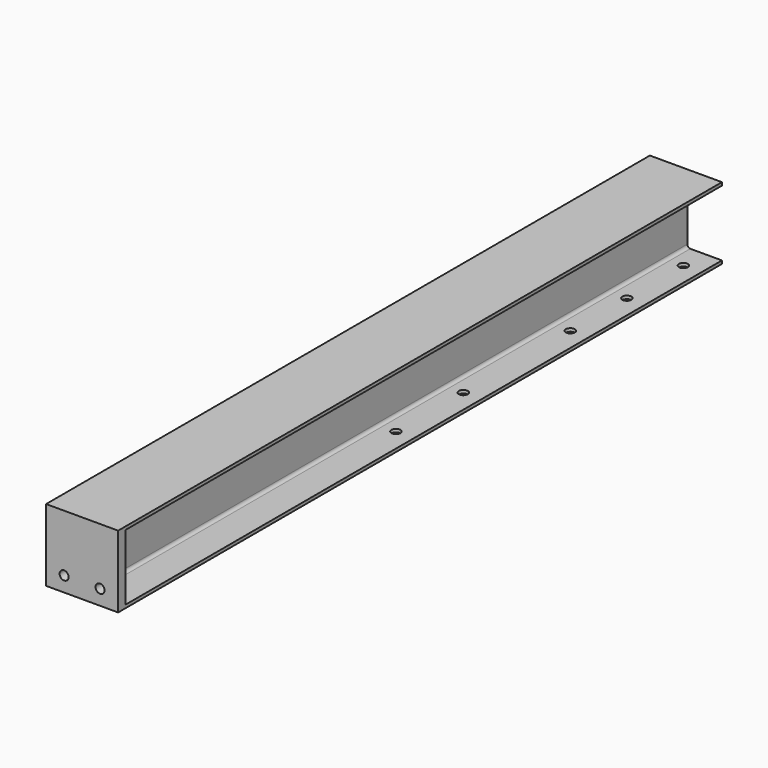
from build123d import *

# Parameters (mm, degrees)
F1_DEPTH = 1574.8
F3_DEPTH = 19.05
F4_R     = 9.525
F5_DEPTH = 43.942
F6_R     = 9.525
F7_DEPTH = 25.4


with BuildPart() as f1:
    # F0 (on Front) → F1 (new body)
    with BuildSketch(Plane.XZ):
        with BuildLine():
            Line((76.073, 76.073), (-76.073, 76.073))
            Line((-76.073, 76.073), (-76.073, 69.469))
            Line((-76.073, 69.469), (-9.271, 69.469))
            ThreePointArc((-9.271, 69.469), (-4.780872, 67.609128), (-2.921, 63.119))
            Line((-2.921, 63.119), (-2.921, -63.119))
            ThreePointArc((-2.921, -63.119), (-4.780872, -67.609128), (-9.271, -69.469))
            Line((-9.271, -69.469), (-76.073, -69.469))
            Line((-76.073, -69.469), (-76.073, -76.073))
            Line((-76.073, -76.073), (76.073, -76.073))
            Line((76.073, -76.073), (76.073, -69.469))
            Line((76.073, -69.469), (9.271, -69.469))
            ThreePointArc((9.271, -69.469), (4.780872, -67.609128), (2.921, -63.119))
            Line((2.921, -63.119), (2.921, 63.119))
            ThreePointArc((2.921, 63.119), (4.780872, 67.609128), (9.271, 69.469))
            Line((9.271, 69.469), (76.073, 69.469))
            Line((76.073, 69.469), (76.073, 76.073))
        make_face()
    extrude(amount=F1_DEPTH)

    # F2 (on face) → F3 (join)
    with BuildSketch(Plane.XZ.offset(1574.8)):
        with BuildLine():
            Line((-9.271, 69.469), (-76.073, 69.469))
            Line((-76.073, 69.469), (-76.073, -69.469))
            Line((-76.073, -69.469), (-9.271, -69.469))
            ThreePointArc((-9.271, -69.469), (-4.780872, -67.609128), (-2.921, -63.119))
            Line((-2.921, -63.119), (-2.921, 63.119))
            ThreePointArc((-2.921, 63.119), (-4.780872, 67.609128), (-9.271, 69.469))
        make_face()
        with BuildLine():
            Line((76.073, 76.073), (-76.073, 76.073))
            Line((-76.073, 76.073), (-76.073, 69.469))
            Line((-76.073, 69.469), (-9.271, 69.469))
            ThreePointArc((-9.271, 69.469), (-4.780872, 67.609128), (-2.921, 63.119))
            Line((-2.921, 63.119), (-2.921, -63.119))
            ThreePointArc((-2.921, -63.119), (-4.780872, -67.609128), (-9.271, -69.469))
            Line((-9.271, -69.469), (-76.073, -69.469))
            Line((-76.073, -69.469), (-76.073, -76.073))
            Line((-76.073, -76.073), (76.073, -76.073))
            Line((76.073, -76.073), (76.073, -69.469))
            Line((76.073, -69.469), (9.271, -69.469))
            ThreePointArc((9.271, -69.469), (4.780872, -67.609128), (2.921, -63.119))
            Line((2.921, -63.119), (2.921, 63.119))
            ThreePointArc((2.921, 63.119), (4.780872, 67.609128), (9.271, 69.469))
            Line((9.271, 69.469), (76.073, 69.469))
            Line((76.073, 69.469), (76.073, 76.073))
        make_face()
        with BuildLine():
            Line((76.073, -69.469), (76.073, 69.469))
            Line((76.073, 69.469), (9.271, 69.469))
            ThreePointArc((9.271, 69.469), (4.780872, 67.609128), (2.921, 63.119))
            Line((2.921, 63.119), (2.921, -63.119))
            ThreePointArc((2.921, -63.119), (4.780872, -67.609128), (9.271, -69.469))
            Line((9.271, -69.469), (76.073, -69.469))
        make_face()
    extrude(amount=F3_DEPTH)

    # F4 (on face) → F5 (cut)
    with BuildSketch(Plane.XZ.offset(1593.85)):
        with Locations((-37.973, -44.323)):
            Circle(F4_R)
        with Locations((37.973, -44.323)):
            Circle(F4_R)
    extrude(amount=-F5_DEPTH, mode=Mode.SUBTRACT)

    # F6 (on face) → F7 (cut)
    with BuildSketch(Plane(origin=(0, 0, -76.073), x_dir=(1, 0, 0), z_dir=(0, 0, -1))):
        with Locations((-37.973, 812.8)):
            Circle(F6_R)
        with Locations((37.973, 812.8)):
            Circle(F6_R)
        with Locations((-37.973, 635)):
            Circle(F6_R)
        with Locations((37.973, 635)):
            Circle(F6_R)
        with Locations((-37.973, 352.425)):
            Circle(F6_R)
        with Locations((37.973, 352.425)):
            Circle(F6_R)
        with Locations((-37.973, 203.2)):
            Circle(F6_R)
        with Locations((37.973, 203.2)):
            Circle(F6_R)
        with Locations((-37.973, 53.975)):
            Circle(F6_R)
        with Locations((37.973, 53.975)):
            Circle(F6_R)
    extrude(amount=-F7_DEPTH, mode=Mode.SUBTRACT)


solid = f1.part
